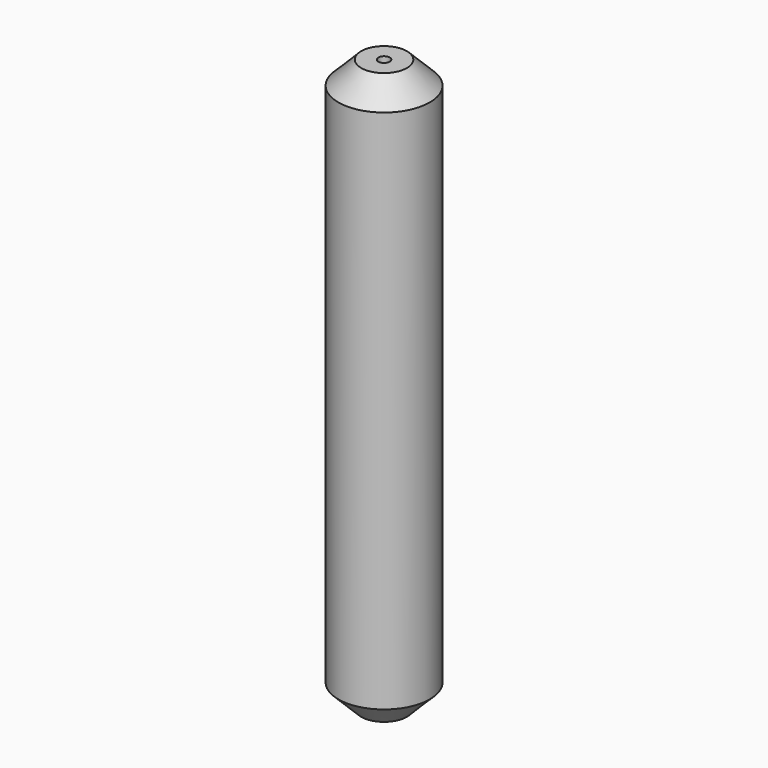
from build123d import *

# Parameters (mm, degrees)
F0_R          = 10
F1_DEPTH      = 100
F1_DEPTH_BACK = 25
F2_SIZE       = 5
F4_D          = 2.5
F5_SIZE       = 5


with BuildPart() as f1:
    # F0 (on Top) → F1 (new body, two sides)
    with BuildSketch(Plane.XY) as f1_sk:
        Circle(F0_R)
    extrude(amount=F1_DEPTH)
    extrude(f1_sk.sketch, amount=-F1_DEPTH_BACK)

    # F2
    f2_edges = [f1.edges().sort_by_distance(p)[0] for p in [
        (-10, 0, 100),
    ]]
    chamfer(f2_edges, length=F2_SIZE)

    # F4 (through all)
    with Locations(Plane.XY.offset(100)):
        with Locations((0, 0)):
            Hole(F4_D / 2)

    # F5
    f5_edges = [f1.edges().sort_by_distance(p)[0] for p in [
        (-10, 0, -25),
    ]]
    chamfer(f5_edges, length=F5_SIZE)


solid = f1.part
